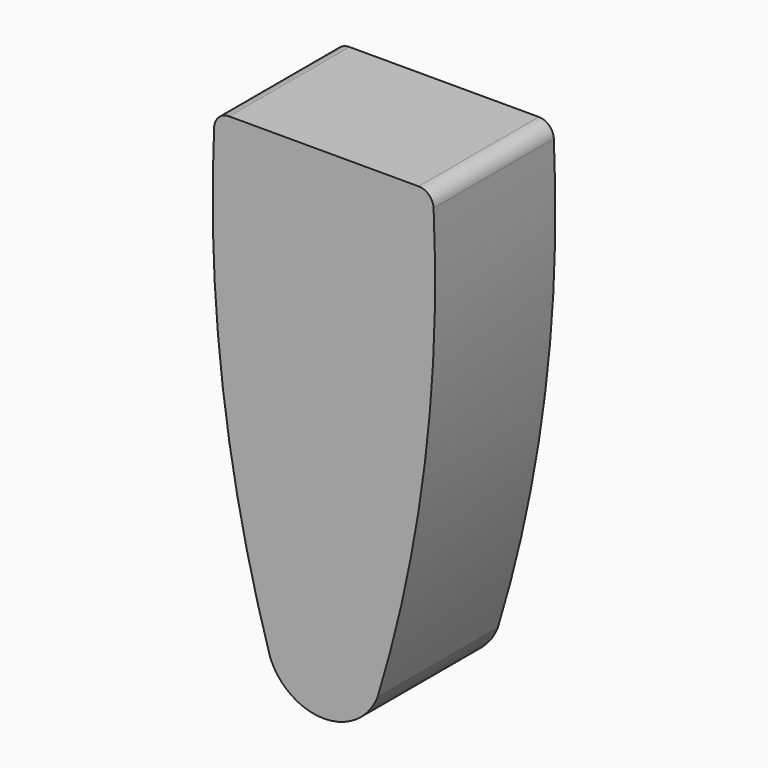
from build123d import *

# Parameters (mm, degrees)
F1_DEPTH = 100


with BuildPart() as f1:
    # F0 (on Front) → F1 (new body)
    with BuildSketch(Plane.XZ):
        with BuildLine():
            Line((66.602687, 55.139948), (-59.430013, 55.139948))
            ThreePointArc((-59.430013, 55.139948), (-66.330961, 52.377138), (-69.418707, 45.615332))
            ThreePointArc((-69.418707, 45.615332), (-63.634498, -105.241982), (-32.151404, -252.890894))
            ThreePointArc((-32.151404, -252.890894), (3.586337, -277.094579), (39.324078, -252.890894))
            ThreePointArc((39.324078, -252.890894), (70.807172, -105.241982), (76.591381, 45.615332))
            ThreePointArc((76.591381, 45.615332), (73.503635, 52.377138), (66.602687, 55.139948))
        make_face()
    extrude(amount=F1_DEPTH)


solid = f1.part
